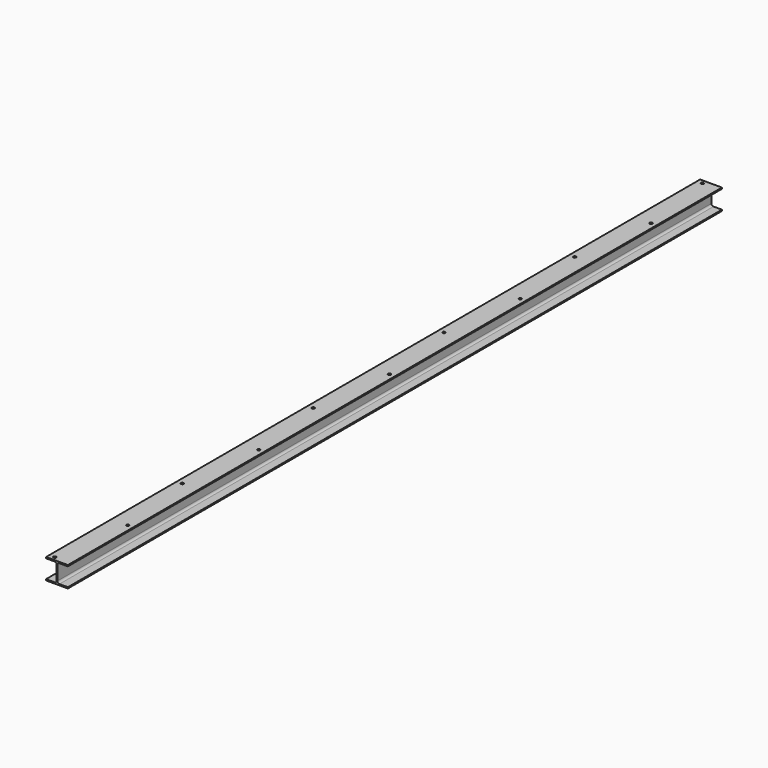
from build123d import *

# Parameters (mm, degrees)
F1_DEPTH = 6000
F2_R     = 10
F3_DEPTH = 25
F4_R     = 10
F5_DEPTH = 25


with BuildPart() as f1:
    # F0 (on Front) → F1 (new body)
    with BuildSketch(Plane.XZ):
        with BuildLine():
            Line((-23.307067, -46.966993), (-85.307067, -46.966993))
            Line((-85.307067, -46.966993), (-85.307067, -55.966993))
            Line((-85.307067, -55.966993), (74.692933, -55.966993))
            Line((74.692933, -55.966993), (74.692933, -46.966993))
            Line((74.692933, -46.966993), (12.692933, -46.966993))
            ThreePointArc((12.692933, -46.966993), (2.086331, -42.573595), (-2.307067, -31.966993))
            Line((-2.307067, -31.966993), (-2.307067, 72.033007))
            ThreePointArc((-2.307067, 72.033007), (2.086331, 82.639608), (12.692933, 87.033007))
            Line((12.692933, 87.033007), (74.692933, 87.033007))
            Line((74.692933, 87.033007), (74.692933, 96.033007))
            Line((74.692933, 96.033007), (-85.307067, 96.033007))
            Line((-85.307067, 96.033007), (-85.307067, 87.033007))
            Line((-85.307067, 87.033007), (-23.307067, 87.033007))
            ThreePointArc((-23.307067, 87.033007), (-12.700465, 82.639608), (-8.307067, 72.033007))
            Line((-8.307067, 72.033007), (-8.307067, -31.966993))
            ThreePointArc((-8.307067, -31.966993), (-12.700465, -42.573595), (-23.307067, -46.966993))
        make_face()
    extrude(amount=F1_DEPTH)

    # F2 (on face) → F3 (cut)
    with BuildSketch(Plane.XY.offset(96.033007)):
        with Locations((34.692933, -6600)):
            Circle(F2_R)
        with Locations((34.692933, -5400)):
            Circle(F2_R)
        with Locations((-45.307067, -5970)):
            Circle(F2_R)
        with Locations((-45.307067, -4800)):
            Circle(F2_R)
        with Locations((34.692933, -4200)):
            Circle(F2_R)
        with Locations((-45.307067, -3600)):
            Circle(F2_R)
        with Locations((34.692933, -3000)):
            Circle(F2_R)
        with Locations((-45.307067, -2400)):
            Circle(F2_R)
        with Locations((34.692933, -1800)):
            Circle(F2_R)
        with Locations((-45.307067, -1200)):
            Circle(F2_R)
        with Locations((34.692933, -600)):
            Circle(F2_R)
        with Locations((-45.307067, -30)):
            Circle(F2_R)
    extrude(amount=-F3_DEPTH, mode=Mode.SUBTRACT)

    # F4 (on face) → F5 (cut)
    with BuildSketch(Plane(origin=(0, 0, -55.966993), x_dir=(1, 0, 0), z_dir=(0, 0, -1))):
        with Locations((-45.307067, 600)):
            Circle(F4_R)
    extrude(amount=-F5_DEPTH, mode=Mode.SUBTRACT)


solid = f1.part
